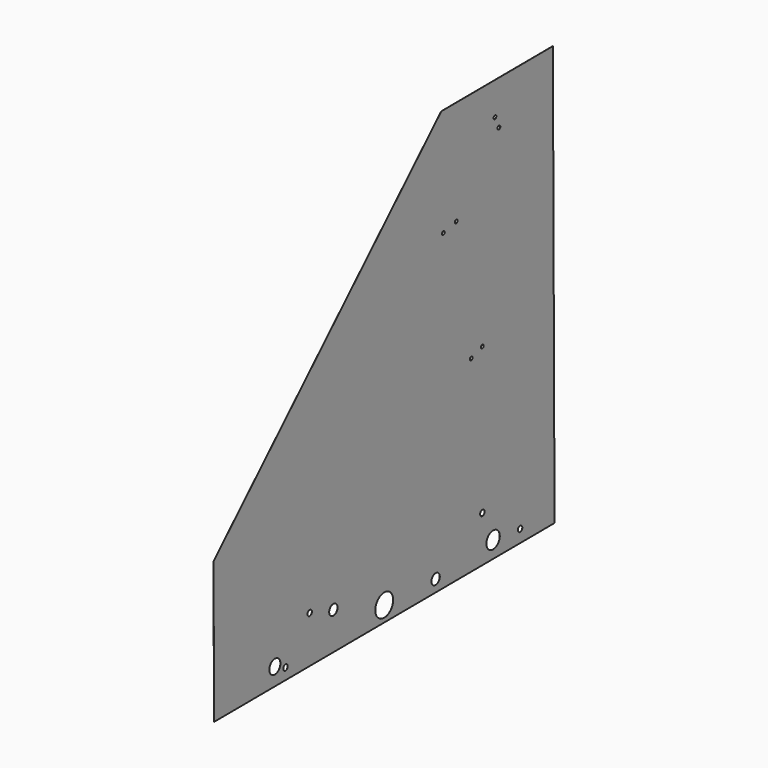
from build123d import *

# Parameters (mm, degrees)
F0_R     = 10
F0_R_2   = 4
F0_R_3   = 7.5
F0_R_4   = 16
F0_R_5   = 12
F0_R_6   = 2.5
F1_DEPTH = 0.1


with BuildPart() as f1:
    # F0 (on Right) → F1 (new body)
    with BuildSketch(Plane.YZ):
        Polygon((-609.999967, -3.005963), (3.3e-05, 7.9e-05), (-2.971514, 603.000079), (-202.971514, 602.014491), (-611.000338, 199.994037), align=None)
        with Locations((-501.117081, 22.530908)):
            Circle(F0_R, mode=Mode.SUBTRACT)
        with Locations((-482.07296, 13.624647)):
            Circle(F0_R_2, mode=Mode.SUBTRACT)
        with Locations((-438.725112, 64.838882)):
            Circle(F0_R_2, mode=Mode.SUBTRACT)
        with Locations((-396.2592, 51.629118)):
            Circle(F0_R_3, mode=Mode.SUBTRACT)
        with Locations((-305.104677, 20.496809)):
            Circle(F0_R_4, mode=Mode.SUBTRACT)
        with Locations((-213.081155, 15.950235)):
            Circle(F0_R_3, mode=Mode.SUBTRACT)
        with Locations((-110.1169, 23.457721)):
            Circle(F0_R_5, mode=Mode.SUBTRACT)
        with Locations((-129.323641, 65.363581)):
            Circle(F0_R_2, mode=Mode.SUBTRACT)
        with Locations((-61.694639, 17.69627)):
            Circle(F0_R_2, mode=Mode.SUBTRACT)
        with Locations((-149.323769, 268.267487)):
            Circle(F0_R_6, mode=Mode.SUBTRACT)
        with Locations((-129.358507, 275.36596)):
            Circle(F0_R_6, mode=Mode.SUBTRACT)
        with Locations((-199.205265, 447.023847)):
            Circle(F0_R_6, mode=Mode.SUBTRACT)
        with Locations((-176.230183, 452.137128)):
            Circle(F0_R_6, mode=Mode.SUBTRACT)
        with Locations((-99.659844, 539.515518)):
            Circle(F0_R_6, mode=Mode.SUBTRACT)
        with Locations((-106.738605, 555.480829)):
            Circle(F0_R_6, mode=Mode.SUBTRACT)
    extrude(amount=F1_DEPTH)


solid = f1.part
